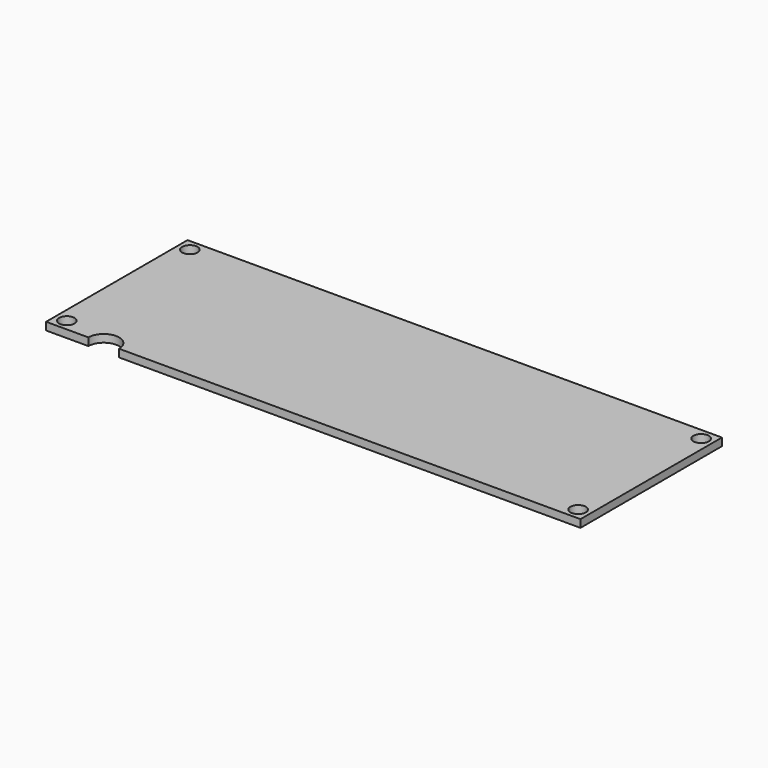
from build123d import *

# Parameters (mm, degrees)
SKETCH_W                = 139
SKETCH_H                = 46
PAD_DEPTH               = 2
SKETCH001_R             = 2
POCKET_DEPTH            = 294.855913
SKETCH001_MIRRORED_2_R  = 2
POCKET_MIRRORED_2_DEPTH = 294.855913
POCKET001_DEPTH         = 2.001


with BuildPart() as part:
    # Sketch → Pad (new body)
    with BuildSketch(Plane.XY):
        Rectangle(SKETCH_W, SKETCH_H)
    extrude(amount=PAD_DEPTH)

    # Sketch001 (on Face6 of Pad) → Pocket (cut, through all)
    with BuildSketch(Plane.XY.offset(2)):
        with Locations((-66.5, 20)):
            Circle(SKETCH001_R)
    pocket = extrude(amount=-POCKET_DEPTH, mode=Mode.SUBTRACT)

    # Sketch001 Mirrored 2 → Pocket Mirrored 2 (cut, through all)
    with BuildSketch(Plane(origin=(0, 0, 2), x_dir=(-1, 0, 0), z_dir=(0, 0, -1))):
        with Locations((-66.5, 20)):
            Circle(SKETCH001_MIRRORED_2_R)
    pocket_mirrored_2 = extrude(amount=POCKET_MIRRORED_2_DEPTH, mode=Mode.SUBTRACT)

    # Mirrored001: Pocket, Pocket Mirrored 2 across Sketch001 H_Axis
    add(pocket.mirror(Plane(origin=(0, 0, 2), x_dir=(0, 0, 1), z_dir=(0, 1, 0))), mode=Mode.SUBTRACT)
    add(pocket_mirrored_2.mirror(Plane(origin=(0, 0, 2), x_dir=(0, 0, 1), z_dir=(0, 1, 0))), mode=Mode.SUBTRACT)

    # Sketch002 (on Face5 of MultiTransform) → Pocket001 (cut, through all)
    with BuildSketch(Plane.XY.offset(2)):
        with BuildLine():
            ThreePointArc((-50.5, -23), (-54.5, -19), (-58.5, -23))
            Line((-58.5, -23), (-50.5, -23))
        make_face()
    extrude(amount=-POCKET001_DEPTH, mode=Mode.SUBTRACT)


solid = part.part
